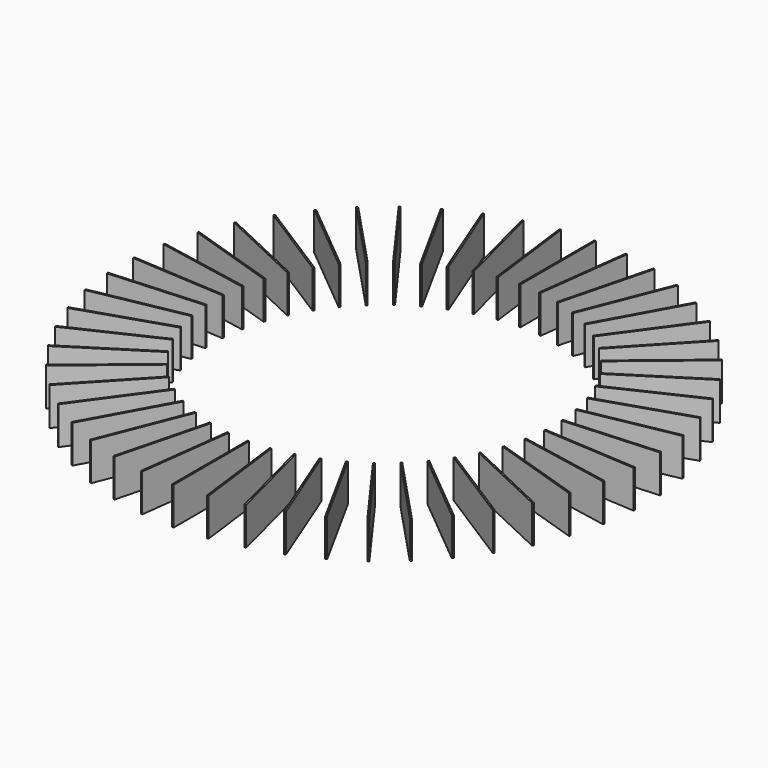
from build123d import *

# Parameters (mm, degrees)
F0_W     = 0.41
F0_H     = 25.000076
F1_DEPTH = 10


with BuildPart() as f1:
    # F0 (on Top) → F1 (new body)
    with BuildSketch(Plane.XY):
        with Locations((-0.012263, 57.499625)):
            Rectangle(F0_W, F0_H)
        Polygon((-8.582067, 69.471851), (-8.988834, 69.420464), (-5.855494, 44.617522), (-5.448727, 44.668908), align=None)
        Polygon((-17.221527, 67.848426), (-17.618646, 67.746464), (-11.40138, 43.531811), (-11.004261, 43.633774), align=None)
        Polygon((-25.589392, 65.154992), (-25.970601, 65.004061), (-16.767459, 41.759578), (-16.386251, 41.910509), align=None)
        Polygon((-33.553698, 61.434024), (-33.912984, 61.236505), (-21.869106, 39.328772), (-21.50982, 39.526291), align=None)
        Polygon((-40.988842, 56.744205), (-41.320539, 56.503213), (-26.625863, 36.277727), (-26.294166, 36.518719), align=None)
        Polygon((-47.777568, 51.159496), (-48.076445, 50.878831), (-30.962715, 32.65456), (-30.663838, 32.935225), align=None)
        Polygon((-53.812812, 44.767971), (-54.074156, 44.45206), (-34.811267, 28.516412), (-34.549923, 28.832323), align=None)
        Polygon((-58.999397, 37.670428), (-59.219086, 37.324254), (-38.110824, 23.928543), (-37.891135, 24.274718), align=None)
        Polygon((-63.255525, 29.9788), (-63.430095, 29.607821), (-40.80935, 18.963307), (-40.634781, 19.334286), align=None)
        Polygon((-66.514077, 21.814389), (-66.640773, 21.424456), (-42.864289, 13.699008), (-42.737592, 14.088941), align=None)
        Polygon((-68.723661, 13.305952), (-68.800487, 12.903214), (-44.243232, 8.218667), (-44.166406, 8.621405), align=None)
        Polygon((-69.849432, 4.587672), (-69.875177, 4.178481), (-44.924433, 2.608713), (-44.898689, 3.017904), align=None)
        Polygon((-69.873637, -4.202959), (-69.847892, -4.61215), (-44.897149, -3.042382), (-44.922893, -2.633191), align=None)
        Polygon((-68.795892, -12.927306), (-68.719065, -13.330044), (-44.16181, -8.645497), (-44.238636, -8.242759), align=None)
        Polygon((-66.633194, -21.447782), (-66.506497, -21.837715), (-42.730013, -14.112267), (-42.85671, -13.722334), align=None)
        Polygon((-63.419652, -29.630013), (-63.245082, -30.000992), (-40.624338, -19.356478), (-40.798907, -18.985499), align=None)
        Polygon((-59.205944, -37.344962), (-58.986255, -37.691136), (-37.877993, -24.295426), (-38.097682, -23.949252), align=None)
        Polygon((-54.058522, -44.470958), (-53.797178, -44.786869), (-34.534289, -28.851221), (-34.795633, -28.53531), align=None)
        Polygon((-48.058566, -50.895621), (-47.759689, -51.176285), (-30.645959, -32.952014), (-30.944836, -32.67135), align=None)
        Polygon((-41.300697, -56.517629), (-40.969, -56.758621), (-26.274324, -36.533135), (-26.606021, -36.292143), align=None)
        Polygon((-33.891491, -61.24832), (-33.532206, -61.445839), (-21.488327, -39.538106), (-21.847613, -39.340587), align=None)
        Polygon((-25.947797, -65.013089), (-25.566588, -65.16402), (-16.363447, -41.919538), (-16.744655, -41.768607), align=None)
        Polygon((-17.59489, -67.752563), (-17.197771, -67.854526), (-10.980505, -43.639874), (-11.377624, -43.537911), align=None)
        Polygon((-8.964501, -69.423538), (-8.557734, -69.474925), (-5.424394, -44.671982), (-5.831161, -44.620596), align=None)
        with Locations((0.012263, -57.499625)):
            Rectangle(F0_W, F0_H)
        Polygon((8.582067, -69.471851), (8.988834, -69.420464), (5.855494, -44.617522), (5.448727, -44.668908), align=None)
        Polygon((17.221527, -67.848426), (17.618646, -67.746464), (11.40138, -43.531811), (11.004261, -43.633774), align=None)
        Polygon((25.589392, -65.154992), (25.970601, -65.004061), (16.767459, -41.759578), (16.386251, -41.910509), align=None)
        Polygon((33.553698, -61.434024), (33.912984, -61.236505), (21.869106, -39.328772), (21.50982, -39.526291), align=None)
        Polygon((40.988842, -56.744205), (41.320539, -56.503213), (26.625863, -36.277727), (26.294166, -36.518719), align=None)
        Polygon((47.777568, -51.159496), (48.076445, -50.878831), (30.962715, -32.65456), (30.663838, -32.935225), align=None)
        Polygon((53.812812, -44.767971), (54.074156, -44.45206), (34.811267, -28.516412), (34.549923, -28.832323), align=None)
        Polygon((58.999397, -37.670428), (59.219086, -37.324254), (38.110824, -23.928543), (37.891135, -24.274718), align=None)
        Polygon((63.255525, -29.9788), (63.430095, -29.607821), (40.80935, -18.963307), (40.634781, -19.334286), align=None)
        Polygon((66.514077, -21.814389), (66.640773, -21.424456), (42.864289, -13.699008), (42.737592, -14.088941), align=None)
        Polygon((68.723661, -13.305952), (68.800487, -12.903214), (44.243232, -8.218667), (44.166406, -8.621405), align=None)
        Polygon((69.849432, -4.587672), (69.875177, -4.178481), (44.924433, -2.608713), (44.898689, -3.017904), align=None)
        Polygon((69.873637, 4.202959), (69.847892, 4.61215), (44.897149, 3.042382), (44.922893, 2.633191), align=None)
        Polygon((68.795892, 12.927306), (68.719065, 13.330044), (44.16181, 8.645497), (44.238636, 8.242759), align=None)
        Polygon((66.633194, 21.447782), (66.506497, 21.837715), (42.730013, 14.112267), (42.85671, 13.722334), align=None)
        Polygon((63.419652, 29.630013), (63.245082, 30.000992), (40.624338, 19.356478), (40.798907, 18.985499), align=None)
        Polygon((59.205944, 37.344962), (58.986255, 37.691136), (37.877993, 24.295426), (38.097682, 23.949252), align=None)
        Polygon((54.058522, 44.470958), (53.797178, 44.786869), (34.534289, 28.851221), (34.795633, 28.53531), align=None)
        Polygon((48.058566, 50.895621), (47.759689, 51.176285), (30.645959, 32.952014), (30.944836, 32.67135), align=None)
        Polygon((41.300697, 56.517629), (40.969, 56.758621), (26.274324, 36.533135), (26.606021, 36.292143), align=None)
        Polygon((33.891491, 61.24832), (33.532206, 61.445839), (21.488327, 39.538106), (21.847613, 39.340587), align=None)
        Polygon((25.947797, 65.013089), (25.566588, 65.16402), (16.363447, 41.919538), (16.744655, 41.768607), align=None)
        Polygon((17.59489, 67.752563), (17.197771, 67.854526), (10.980505, 43.639874), (11.377624, 43.537911), align=None)
        Polygon((8.964501, 69.423538), (8.557734, 69.474925), (5.424394, 44.671982), (5.831161, 44.620596), align=None)
    extrude(amount=F1_DEPTH)


solid = f1.part
